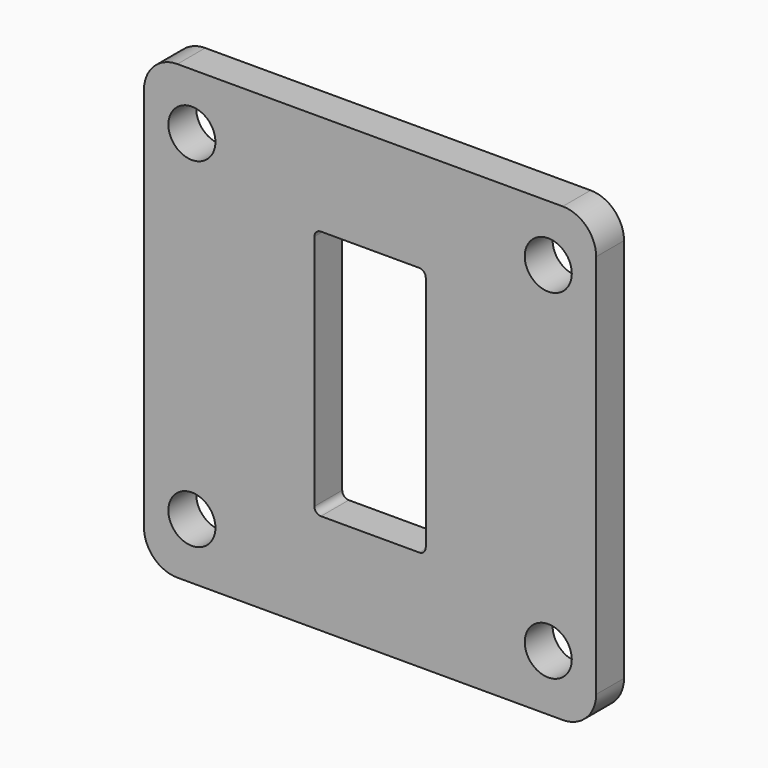
from build123d import *

# Parameters (mm, degrees)
F0_W     = 41.2496
F0_H     = 41.2496
F0_R     = 2.1463
F0_W_2   = 10.16
F0_H_2   = 22.86
F1_DEPTH = 3.175
F2_R     = 3.048
F3_R     = 0.5969


with BuildPart() as f1:
    # F0 (on Front) → F1 (new body)
    with BuildSketch(Plane.XZ):
        Rectangle(F0_W, F0_H)
        with Locations((-16.256, -15.494)):
            Circle(F0_R, mode=Mode.SUBTRACT)
        with Locations((16.256, -15.494)):
            Circle(F0_R, mode=Mode.SUBTRACT)
        with Locations((-16.256, 15.494)):
            Circle(F0_R, mode=Mode.SUBTRACT)
        Rectangle(F0_W_2, F0_H_2, mode=Mode.SUBTRACT)
        with Locations((16.256, 15.494)):
            Circle(F0_R, mode=Mode.SUBTRACT)
    extrude(amount=F1_DEPTH)

    # F2
    f2_edges = [f1.edges().sort_by_distance(p)[0] for p in [
        (20.6248, -1.5875, 20.6248),
        (-20.6248, -1.5875, 20.6248),
        (-20.6248, -1.5875, -20.6248),
        (20.6248, -1.5875, -20.6248),
    ]]
    fillet(f2_edges, radius=F2_R)

    # F3
    f3_edges = [f1.edges().sort_by_distance(p)[0] for p in [
        (-5.08, -1.5875, 11.43),
        (5.08, -1.5875, 11.43),
        (-5.08, -1.5875, -11.43),
        (5.08, -1.5875, -11.43),
    ]]
    fillet(f3_edges, radius=F3_R)


solid = f1.part
